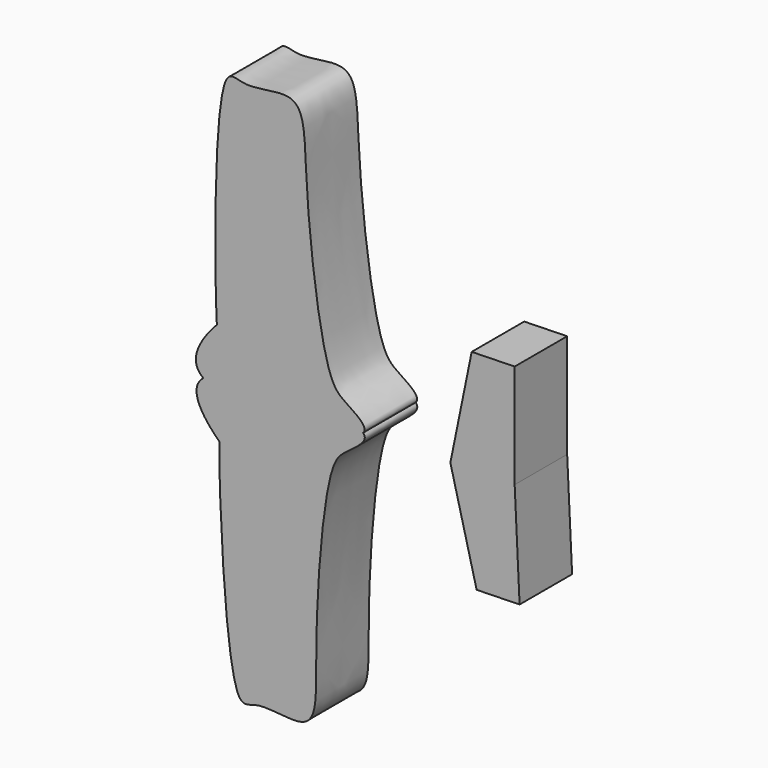
from build123d import *

# Parameters (mm, degrees)
F1_DEPTH = 25.4


with BuildPart() as f1:
    # F0 (on Front) → F1 (new body)
    with BuildSketch(Plane.XZ):
        with BuildLine():
            add(Edge.make_bspline(
                [(45.5462893194, 2.5388785984), (39.9582998893, 7.9240894931), (-5.7730626183, 9.2077742083), (-16.2475167724, 1.0718565162)],
                knots=[0.8490515264, 0.8490515264, 0.8490515264, 0.8490515264, 1, 1, 1, 1], degree=3))
            add(Edge.make_bspline(
                [(45.5462893194, 2.5388785984), (40.2201475537, -3.1054403281), (-5.3987775658, -6.5578357546), (-16.2475167724, 1.0718565162)],
                knots=[0.8490515264, 0.8490515264, 0.8490515264, 0.8490515264, 1, 1, 1, 1], degree=3))
        make_face()
        with BuildLine():
            add(Edge.make_bspline(
                [(45.5462893194, 2.5388785984), (40.2201475537, -3.1054403281), (-5.3987775658, -6.5578357546), (-16.2475167724, 1.0718565162)],
                knots=[0.8490515264, 0.8490515264, 0.8490515264, 0.8490515264, 1, 1, 1, 1], degree=3))
            add(Edge.make_bspline(
                [(-16.2475167724, 1.0718565162), (-21.2636394747, -2.8243619252), (-15.9796850631, -13.2499462138), (-9.8568957031, -18.62979921), (-10.5950896494, -18.7318097756), (-7.9884948562, -112.5870172801), (4.9323594283, -101.0547647173), (28.7407139845, -108.453352552), (26.0802596445, -76.69945325), (30.6921905775, -13.2619460256), (38.3086231565, -6.4281506203), (43.3740585828, -3.0915426442), (47.1888503043, 0.9559233294), (45.5462893194, 2.5388785984)],
                knots=[0, 0, 0, 0, 0.0722878781, 0.1244358983, 0.1382683453, 0.3144091469, 0.3669450217, 0.4484614357, 0.5454739698, 0.7003339196, 0.7563532656, 0.8046809926, 0.8490515264, 0.8490515264, 0.8490515264, 0.8490515264], degree=3))
        make_face()
        with BuildLine():
            add(Edge.make_bspline(
                [(-16.2475167724, 1.0718565162), (-21.4428812491, 4.725648117), (-16.6596201519, 15.3902341501), (-10.7990267043, 21.0545798537), (-11.5412298591, 21.1214449027), (-13.3914194163, 114.994609922), (0.0621350349, 104.0885016682), (23.4925712064, 112.6085667757), (22.3419781283, 80.7641909184), (29.9591056358, 17.6170088885), (37.8912516026, 11.1523460794), (43.1093172377, 8.0598745968), (47.1118815192, 4.1979973513), (45.5462893194, 2.5388785984)],
                knots=[0, 0, 0, 0, 0.0722878781, 0.1244358983, 0.1382683453, 0.3144091469, 0.3669450217, 0.4484614357, 0.5454739698, 0.7003339196, 0.7563532656, 0.8046809926, 0.8490515264, 0.8490515264, 0.8490515264, 0.8490515264], degree=3))
            add(Edge.make_bspline(
                [(45.5462893194, 2.5388785984), (39.9582998893, 7.9240894931), (-5.7730626183, 9.2077742083), (-16.2475167724, 1.0718565162)],
                knots=[0.8490515264, 0.8490515264, 0.8490515264, 0.8490515264, 1, 1, 1, 1], degree=3))
        make_face()
    extrude(amount=F1_DEPTH)


with BuildPart() as f1b:
    # F0 (on Front) → F1, piece 2 (new body)
    with BuildSketch(Plane.XZ):
        Polygon((87.5713303685, 43.7853895128), (79.3148323896, 3.3405640989), (104.1962221087, 3.9312632395), (104.1962221087, 44.1800744309), align=None)
        Polygon((104.1962221087, 3.9312632395), (79.3148323896, 3.3405640989), (89.481315788, -36.6668886687), (106.1062075282, -36.2722037506), align=None)
    extrude(amount=F1_DEPTH)


solid = Compound([f1.part, f1b.part])
